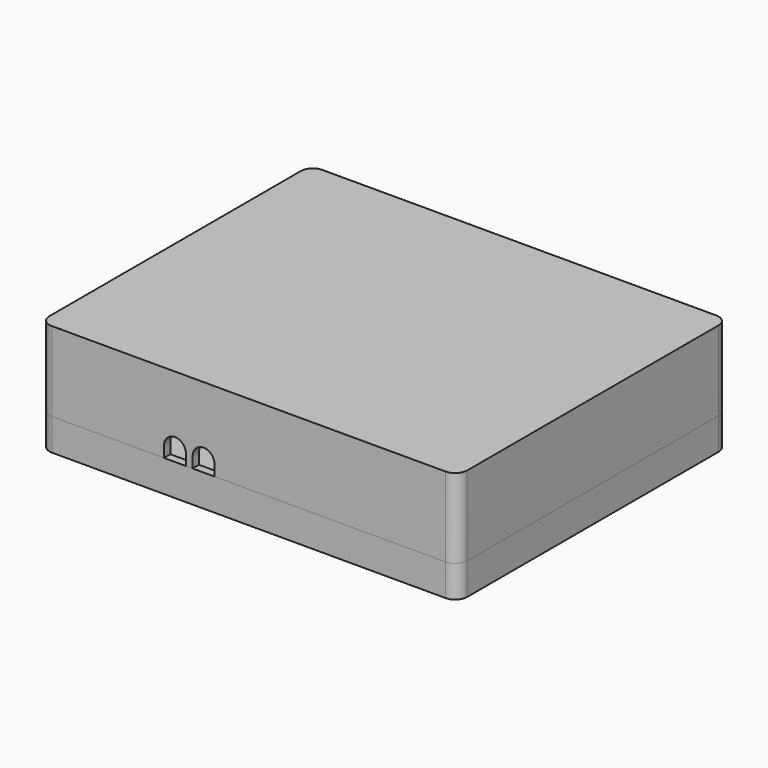
from build123d import *

# Parameters (mm, degrees)
SKETCH_W             = 105
SKETCH_H             = 85
PAD_DEPTH            = 8
FILLET_R             = 3
POCKET_DEPTH         = 6.5
SKETCH002_R          = 4.25
PAD001_DEPTH         = 4.9
SKETCH003_R          = 3.05
POCKET001_DEPTH      = 5
SKETCH004_R          = 1.75
POCKET002_DEPTH      = 5
SKETCH005_W          = 105
SKETCH005_H          = 85
PAD002_DEPTH         = 20
FILLET001_R          = 3
POCKET003_DEPTH      = 18
SKETCH007_R          = 3.3
PAD003_DEPTH         = 18
SKETCH008_R          = 1.15
POCKET004_DEPTH      = 5
FILLET002_R          = 2
SKETCH009_W          = 20
SKETCH009_H          = 18
SKETCH009_W_2        = 7.3
SKETCH009_H_2        = 5
SKETCH009_W_3        = 16.1
SKETCH009_H_3        = 13
SKETCH009_W_4        = 11
SKETCH009_H_4        = 8
POCKET005_DEPTH      = 5
POCKET005_DEPTH_BACK = -12
POCKET006_DEPTH      = 5


with BuildPart() as obj1:
    # Sketch → Pad (new body)
    with BuildSketch(Plane.XY):
        Rectangle(SKETCH_W, SKETCH_H)
    extrude(amount=PAD_DEPTH)

    # Fillet
    fillet_edges = [obj1.edges().sort_by_distance(p)[0] for p in [
        (-52.5, -42.5, 4),
        (52.5, -42.5, 4),
        (52.5, 42.5, 4),
        (-52.5, 42.5, 4),
    ]]
    fillet(fillet_edges, radius=FILLET_R)

    # Sketch001 (on Face5 of Fillet) → Pocket (cut)
    with BuildSketch(Plane.XY.offset(8)):
        with BuildLine():
            Line((-50.5, -39), (-50.5, 39))
            ThreePointArc((-49, 40.5), (-50.06066, 40.06066), (-50.5, 39))
            Line((49, 40.5), (-49, 40.5))
            ThreePointArc((50.5, 39), (50.06066, 40.06066), (49, 40.5))
            Line((50.5, -39), (50.5, 39))
            ThreePointArc((49, -40.5), (50.06066, -40.06066), (50.5, -39))
            Line((-49, -40.5), (49, -40.5))
            ThreePointArc((-50.5, -39), (-50.06066, -40.06066), (-49, -40.5))
        make_face()
    extrude(amount=-POCKET_DEPTH, mode=Mode.SUBTRACT)

    # Sketch002 (on Face19 of Pocket) → Pad001 (join)
    with BuildSketch(Plane.XY.offset(1.5)):
        with Locations((-45.9, -32.6)):
            Circle(SKETCH002_R)
        with Locations((-45.9, 32.6)):
            Circle(SKETCH002_R)
        with Locations((45.9, 32.6)):
            Circle(SKETCH002_R)
        with Locations((45.9, -32.6)):
            Circle(SKETCH002_R)
    extrude(amount=PAD001_DEPTH)

    # Sketch003 (on Face2 of Pad001) → Pocket001 (cut)
    with BuildSketch(Plane(origin=(0, 0, 0), x_dir=(1, 0, 0), z_dir=(0, 0, -1))):
        with Locations((-45.9, -32.6)):
            Circle(SKETCH003_R)
        with Locations((45.9, -32.6)):
            Circle(SKETCH003_R)
        with Locations((45.9, 32.6)):
            Circle(SKETCH003_R)
        with Locations((-45.9, 32.6)):
            Circle(SKETCH003_R)
    extrude(amount=-POCKET001_DEPTH, mode=Mode.SUBTRACT)

    # Sketch004 (on Face33 of Pocket001) → Pocket002 (cut)
    with BuildSketch(Plane.XY.offset(6.4)):
        with Locations((-45.9, 32.6)):
            Circle(SKETCH004_R)
        with Locations((45.9, 32.6)):
            Circle(SKETCH004_R)
        with Locations((45.9, -32.6)):
            Circle(SKETCH004_R)
        with Locations((-45.9, -32.6)):
            Circle(SKETCH004_R)
    extrude(amount=-POCKET002_DEPTH, mode=Mode.SUBTRACT)


with BuildPart() as obj2:
    # Sketch005 → Pad002 (new body)
    with BuildSketch(Plane.XY):
        Rectangle(SKETCH005_W, SKETCH005_H)
    extrude(amount=PAD002_DEPTH)

    # Fillet001
    fillet001_edges = [obj2.edges().sort_by_distance(p)[0] for p in [
        (-52.5, -42.5, 10),
        (52.5, -42.5, 10),
        (-52.5, 42.5, 10),
        (52.5, 42.5, 10),
    ]]
    fillet(fillet001_edges, radius=FILLET001_R)

    # Sketch006 (on Face2 of Fillet001) → Pocket003 (cut)
    with BuildSketch(Plane(origin=(0, 0, 0), x_dir=(1, 0, 0), z_dir=(0, 0, -1))):
        with BuildLine():
            Line((-50.5, 39.5), (-50.5, -39.5))
            ThreePointArc((-50.5, -39.5), (-50.207107, -40.207107), (-49.5, -40.5))
            Line((-49.5, -40.5), (49.5, -40.5))
            ThreePointArc((49.5, -40.5), (50.207107, -40.207107), (50.5, -39.5))
            Line((50.5, -39.5), (50.5, 39.5))
            ThreePointArc((50.5, 39.5), (50.207107, 40.207107), (49.5, 40.5))
            Line((49.5, 40.5), (-49.5, 40.5))
            ThreePointArc((-49.5, 40.5), (-50.207107, 40.207107), (-50.5, 39.5))
        make_face()
    extrude(amount=-POCKET003_DEPTH, mode=Mode.SUBTRACT)

    # Sketch007 (on Face19 of Pocket003) → Pad003 (join)
    with BuildSketch(Plane(origin=(0, 0, 18), x_dir=(1, 0, 0), z_dir=(0, 0, -1))):
        with Locations((-45.9, 32.6)):
            Circle(SKETCH007_R)
        with Locations((45.9, 32.6)):
            Circle(SKETCH007_R)
        with Locations((45.9, -32.6)):
            Circle(SKETCH007_R)
        with Locations((-45.9, -32.6)):
            Circle(SKETCH007_R)
    extrude(amount=PAD003_DEPTH)

    # Sketch008 (on Face24 of Pad003) → Pocket004 (cut)
    with BuildSketch(Plane(origin=(0, 0, 0), x_dir=(1, 0, 0), z_dir=(0, 0, -1))):
        with Locations((-45.9, 32.6)):
            Circle(SKETCH008_R)
        with Locations((45.9, 32.6)):
            Circle(SKETCH008_R)
        with Locations((45.9, -32.6)):
            Circle(SKETCH008_R)
        with Locations((-45.9, -32.6)):
            Circle(SKETCH008_R)
    extrude(amount=-POCKET004_DEPTH, mode=Mode.SUBTRACT)

    # Fillet002
    fillet002_edges = [obj2.edges().sort_by_distance(p)[0] for p in [
        (42.6, -32.6, 18),
        (42.6, 32.6, 18),
        (-49.2, -32.6, 18),
        (-49.2, 32.6, 18),
    ]]
    fillet(fillet002_edges, radius=FILLET002_R)

    # Sketch009 (on Face20 of Fillet002) → Pocket005 (cut, two sides)
    with BuildSketch(Plane.XZ.offset(-40.5)) as pocket005_sk:
        with Locations((28.9, 9)):
            Rectangle(SKETCH009_W, SKETCH009_H)
        with Locations((13.25, 2.5)):
            Rectangle(SKETCH009_W_2, SKETCH009_H_2)
        with Locations((-13.85, 6.5)):
            Rectangle(SKETCH009_W_3, SKETCH009_H_3)
        with Locations((2.1, 4)):
            Rectangle(SKETCH009_W_4, SKETCH009_H_4)
        with Locations((-35.15, 6.5)):
            Rectangle(SKETCH009_W_3, SKETCH009_H_3)
    extrude(amount=-POCKET005_DEPTH, mode=Mode.SUBTRACT)
    extrude(pocket005_sk.sketch, amount=-POCKET005_DEPTH_BACK, mode=Mode.SUBTRACT)

    # Sketch010 (on Face32 of Pocket005) → Pocket006 (cut)
    with BuildSketch(Plane.XZ.offset(42.5)):
        with BuildLine():
            Line((-21.3, 0), (-15.8, 0))
            Line((-15.8, 0), (-15.8, 2.75))
            ThreePointArc((-15.8, 2.75), (-18.55, 5.5), (-21.3, 2.75))
            Line((-21.3, 2.75), (-21.3, 0))
        make_face()
        with BuildLine():
            Line((-14.1, 0), (-8.6, 0))
            Line((-8.6, 0), (-8.6, 2.75))
            ThreePointArc((-8.6, 2.75), (-11.35, 5.5), (-14.1, 2.75))
            Line((-14.1, 2.75), (-14.1, 0))
        make_face()
    extrude(amount=-POCKET006_DEPTH, mode=Mode.SUBTRACT)


with BuildPart() as obj2_1:
    # Body001 placement: moved
    add(obj2.part.moved(Location((0, 0, 8))))


solid = Compound([obj1.part, obj2_1.part])
